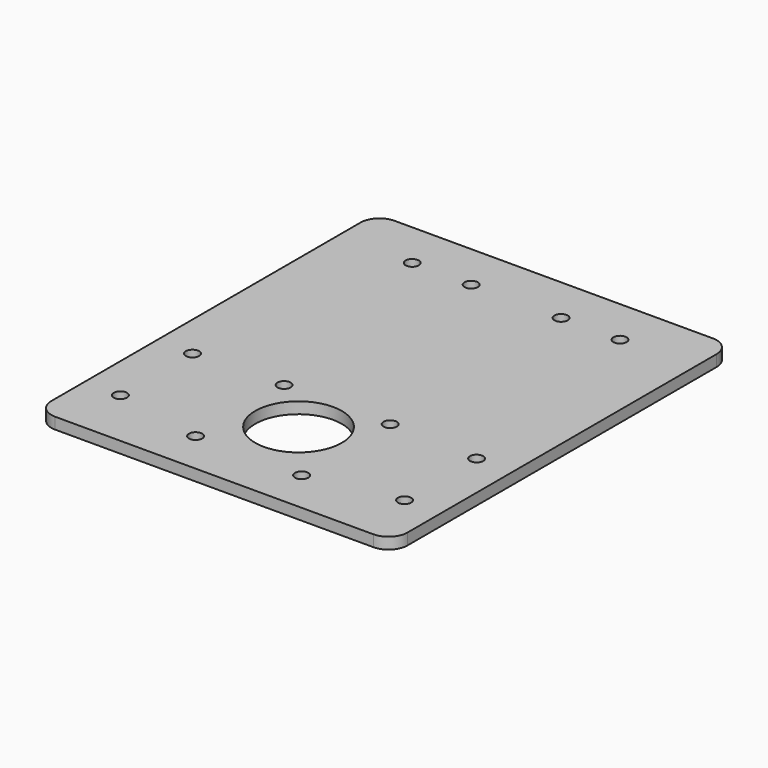
from build123d import *

# Parameters (mm, degrees)
F0_R     = 1.75
F0_R_2   = 11.421003
F1_DEPTH = 3


with BuildPart() as f1:
    # F0 (on Top) → F1 (new body)
    with BuildSketch(Plane.XY):
        with BuildLine():
            Line((-42, -56), (42, -56))
            ThreePointArc((42, -56), (45.535534, -54.535534), (47, -51))
            Line((47, -51), (47, 51))
            ThreePointArc((47, 51), (45.535534, 54.535534), (42, 56))
            Line((42, 56), (-42, 56))
            ThreePointArc((-42, 56), (-45.535534, 54.535534), (-47, 51))
            Line((-47, 51), (-47, -51))
            ThreePointArc((-47, -51), (-45.535534, -54.535534), (-42, -56))
        make_face()
        with Locations((-37.5, -40.104277)):
            Circle(F0_R, mode=Mode.SUBTRACT)
        with Locations((-14.001238, -44.672664)):
            Circle(F0_R, mode=Mode.SUBTRACT)
        with Locations((-37.5, -16.304277)):
            Circle(F0_R, mode=Mode.SUBTRACT)
        with Locations((-14.001238, -15.46315)):
            Circle(F0_R, mode=Mode.SUBTRACT)
        with Locations((14.001238, -44.672664)):
            Circle(F0_R, mode=Mode.SUBTRACT)
        with Locations((0, -28.204277)):
            Circle(F0_R_2, mode=Mode.SUBTRACT)
        with Locations((37.5, -40.104277)):
            Circle(F0_R, mode=Mode.SUBTRACT)
        with Locations((14.001238, -15.46315)):
            Circle(F0_R, mode=Mode.SUBTRACT)
        with Locations((37.5, -16.304277)):
            Circle(F0_R, mode=Mode.SUBTRACT)
        with Locations((-27.422061, 43.588873)):
            Circle(F0_R, mode=Mode.SUBTRACT)
        with Locations((-11.861649, 43.588873)):
            Circle(F0_R, mode=Mode.SUBTRACT)
        with Locations((11.861649, 43.588873)):
            Circle(F0_R, mode=Mode.SUBTRACT)
        with Locations((27.422061, 43.588873)):
            Circle(F0_R, mode=Mode.SUBTRACT)
    extrude(amount=F1_DEPTH)


solid = f1.part
